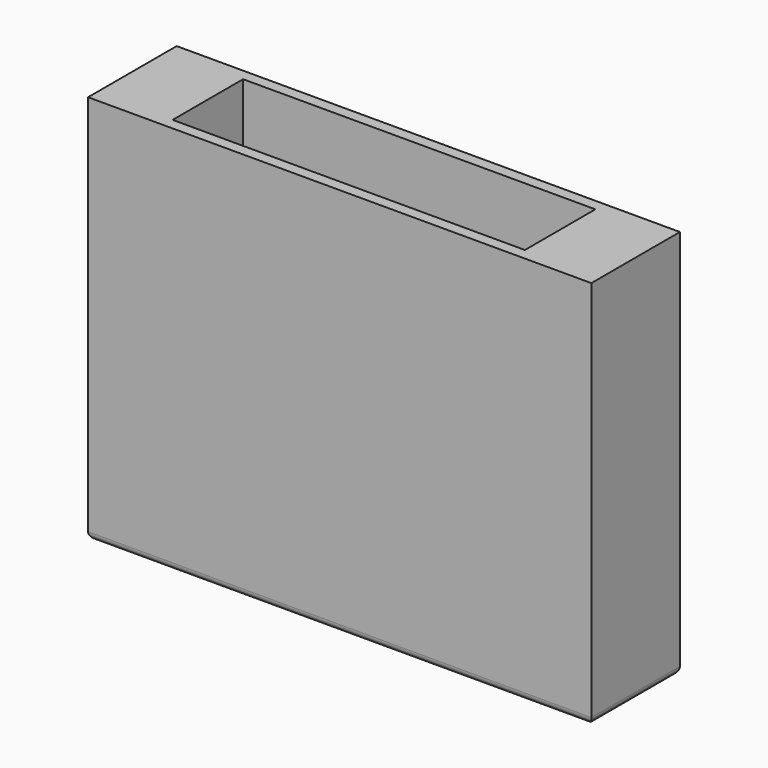
from build123d import *

# Parameters (mm, degrees)
F0_W     = 50.8
F0_H     = 39.37
F1_DEPTH = 5.588
F2_W     = 35.56
F2_H     = 8.89
F3_DEPTH = 39.37
F4_R     = 0.762


with BuildPart() as f1:
    # F0 (on Front) → F1 (new body, symmetric)
    with BuildSketch(Plane.XZ):
        Rectangle(F0_W, F0_H)
    extrude(amount=F1_DEPTH, both=True)

    # F2 (on face) → F3 (cut)
    with BuildSketch(Plane.XY.offset(19.685)):
        Rectangle(F2_W, F2_H)
    extrude(amount=-F3_DEPTH, mode=Mode.SUBTRACT)

    # F4
    f4_edges = [f1.edges().sort_by_distance(p)[0] for p in [
        (25.4, 0, -19.685),
        (0, -5.588, -19.685),
        (0, 5.588, -19.685),
        (-25.4, 0, -19.685),
    ]]
    fillet(f4_edges, radius=F4_R)


solid = f1.part
